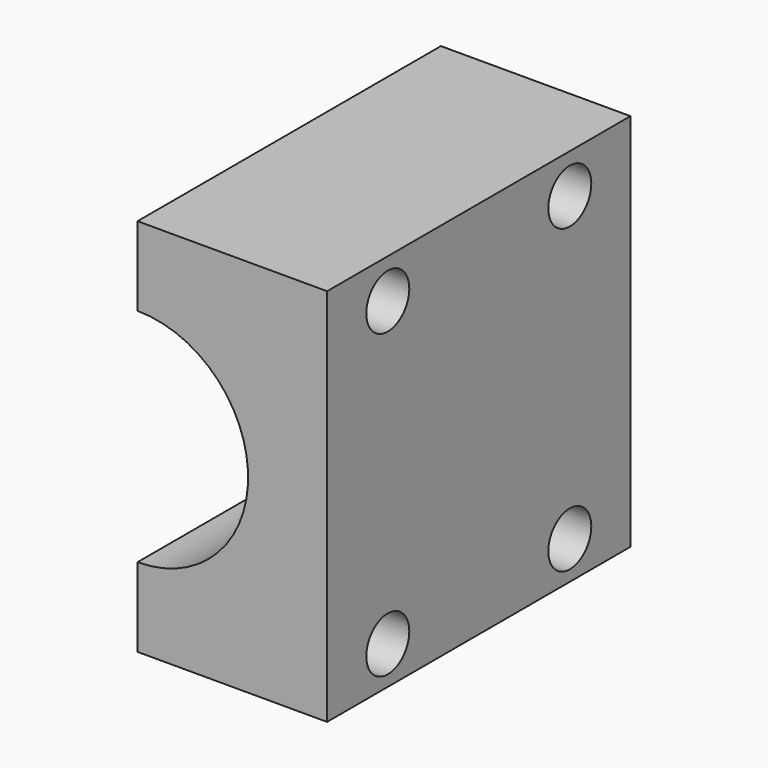
from build123d import *

# Parameters (mm, degrees)
F1_DEPTH = 30
F3_D     = 8.5


with BuildPart() as f1:
    # F0 (on Front) → F1 (new body, symmetric)
    with BuildSketch(Plane.XZ):
        with BuildLine():
            Line((-15, -17.5), (-15, -30))
            Line((-15, -30), (15, -30))
            Line((15, -30), (15, 30))
            Line((15, 30), (-15, 30))
            Line((-15, 30), (-15, 17.5))
            ThreePointArc((-15, 17.5), (2.5, 0), (-15, -17.5))
        make_face()
    extrude(amount=F1_DEPTH, both=True)

    # F3 (through all)
    with Locations(Plane(origin=(-15, 0, 0), x_dir=(0, -1, 0), z_dir=(-1, 0, 0))):
        with Locations((18, 23.75), (-18, 23.75), (-18, -24), (18, -24)):
            Hole(F3_D / 2)


solid = f1.part
